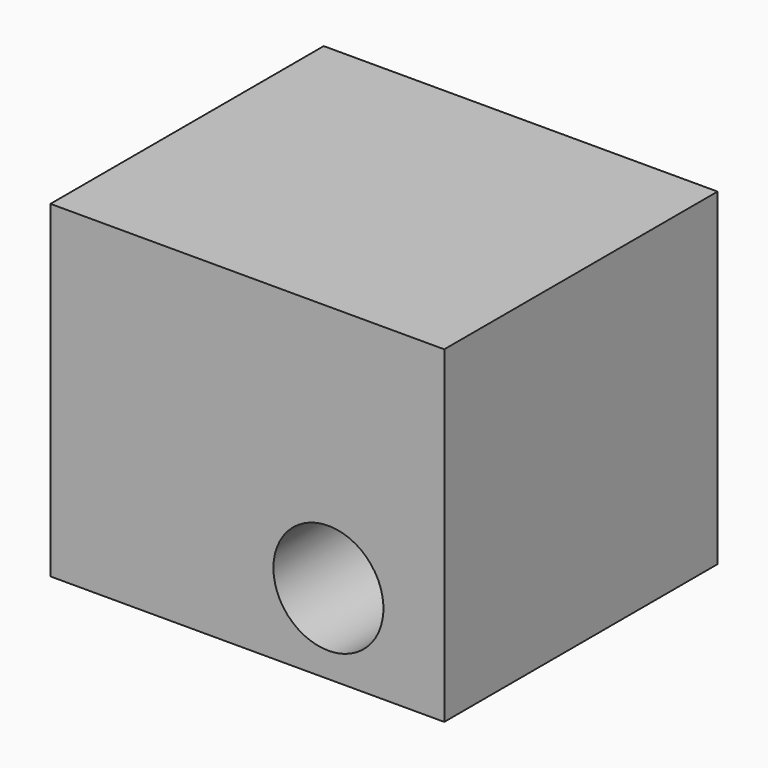
from build123d import *

# Parameters (mm, degrees)
F0_W     = 146.409407258
F0_H     = 121.9511963427
F1_DEPTH = 127
F4_D     = 25.4
F2_W     = 146.409407258
F2_H     = 121.9511963427
F2_R     = 20.4523292797
F6_DEPTH = 127


with BuildPart() as f1:
    # F0 (on Front) → F1 (new body)
    with BuildSketch(Plane.XZ):
        with Locations((-1.3189986348, -14.5600493997)):
            Rectangle(F0_W, F0_H)
    extrude(amount=F1_DEPTH)

    # F4 (through all)
    with Locations(Plane(origin=(0, 0, 0), x_dir=(-1, 0, 0), z_dir=(0, 1, 0))):
        with Locations((-28.0630998313, -46.4930534363)):
            Hole(F4_D / 2)


with BuildPart() as f6:
    # F2 (on face) → F6 (new body)
    with BuildSketch(Plane(origin=(0, 0, 0), x_dir=(-1, 0, 0), z_dir=(0, 1, 0))):
        with Locations((1.3189986348, -14.5600493997)):
            Rectangle(F2_W, F2_H)
        with Locations((-28.8153458387, -45.7823053002)):
            Circle(F2_R, mode=Mode.SUBTRACT)
    extrude(amount=F6_DEPTH)


solid = f6.part
